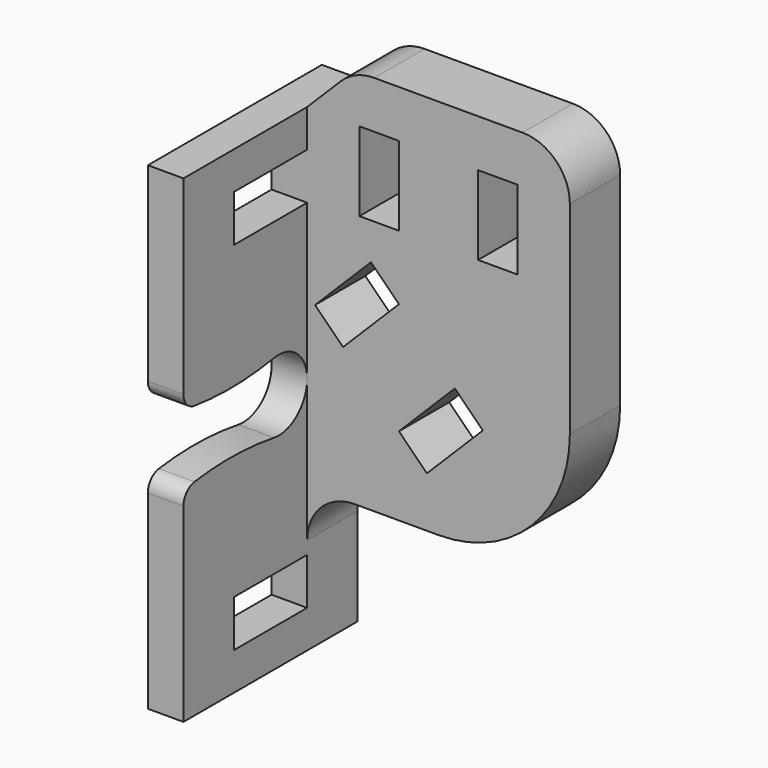
from build123d import *

# Parameters (mm, degrees)
SKETCH_W     = 5.8
SKETCH_H     = 2.95
PAD_DEPTH    = 2.25
SKETCH001_W  = 5
SKETCH001_H  = 2.5
PAD001_DEPTH = 3.975
FILLET_R     = 2.99
CHAMFER_SIZE = 2.9999
FILLET001_R  = 3
FILLET002_R  = 1


with BuildPart() as part:
    # Sketch → Pad (new body)
    with BuildSketch(Plane.YZ):
        with BuildLine():
            Line((-6.875, -15.125), (6.875, -15.125))
            Line((6.875, -15.125), (6.875, 15.125))
            Line((6.875, 15.125), (-6.875, 15.125))
            Line((-6.875, 15.125), (-6.875, 2.25))
            ThreePointArc((-6.875, 2.25), (-3.300315, 1.928152), (0.277037, 2.218873))
            ThreePointArc((0.277037, -2.218873), (2.9, 0), (0.277037, 2.218873))
            ThreePointArc((0.277037, -2.218873), (-3.300315, -1.928152), (-6.875, -2.25))
            Line((-6.875, -2.25), (-6.875, -15.125))
        make_face()
        with Locations((0, 11.275)):
            Rectangle(SKETCH_W, SKETCH_H, mode=Mode.SUBTRACT)
        with Locations((0, -11.275)):
            Rectangle(SKETCH_W, SKETCH_H, mode=Mode.SUBTRACT)
    extrude(amount=-PAD_DEPTH)

    # Sketch001 (on DatumPlane) → Pad001 (join)
    with BuildSketch(Plane.ZX.offset(6.875)):
        with BuildLine():
            Line((-6, 0), (15.125, 0))
            Line((15.125, 0), (18.125, 0))
            Line((18.125, 0), (18.125, 16.606602))
            Line((18.125, 16.606602), (15.125, 16.606602))
            Line((2.303301, 16.606602), (15.125, 16.606602))
            ThreePointArc((2.303301, 16.606602), (-3.568019, 14.174621), (-6, 8.303301))
            Line((-6, 0), (-6, 8.303301))
        make_face()
        with Locations((12.625, 4.553301)):
            Rectangle(SKETCH001_W, SKETCH001_H, mode=Mode.SUBTRACT)
        with Locations((12.625, 12.053301)):
            Rectangle(SKETCH001_W, SKETCH001_H, mode=Mode.SUBTRACT)
        Polygon((4.267767, 0.5), (7.803301, 4.035534), (6.035534, 5.803301), (2.5, 2.267767), align=None, mode=Mode.SUBTRACT)
        Polygon((-1.035534, 5.803301), (2.5, 9.338835), (0.732233, 11.106602), (-2.803301, 7.571068), align=None, mode=Mode.SUBTRACT)
    extrude(amount=-PAD001_DEPTH)

    # Fillet
    fillet_edges = [part.edges().sort_by_distance(p)[0] for p in [
        (0, 4.8875, -6),
        (16.606602, 4.8875, 18.125),
    ]]
    fillet(fillet_edges, radius=FILLET_R)

    # Chamfer
    chamfer_edges = [part.edges().sort_by_distance(p)[0] for p in [
        (0, 4.8875, 18.125),
    ]]
    chamfer(chamfer_edges, length=CHAMFER_SIZE)

    # Fillet001
    fillet001_edges = [part.edges().sort_by_distance(p)[0] for p in [
        (2.9999, 4.8875, 18.125),
    ]]
    fillet(fillet001_edges, radius=FILLET001_R)

    # Fillet002
    fillet002_edges = [part.edges().sort_by_distance(p)[0] for p in [
        (-1.125, -6.875, 2.25),
        (-1.125, -6.875, -2.25),
    ]]
    fillet(fillet002_edges, radius=FILLET002_R)


solid = part.part
